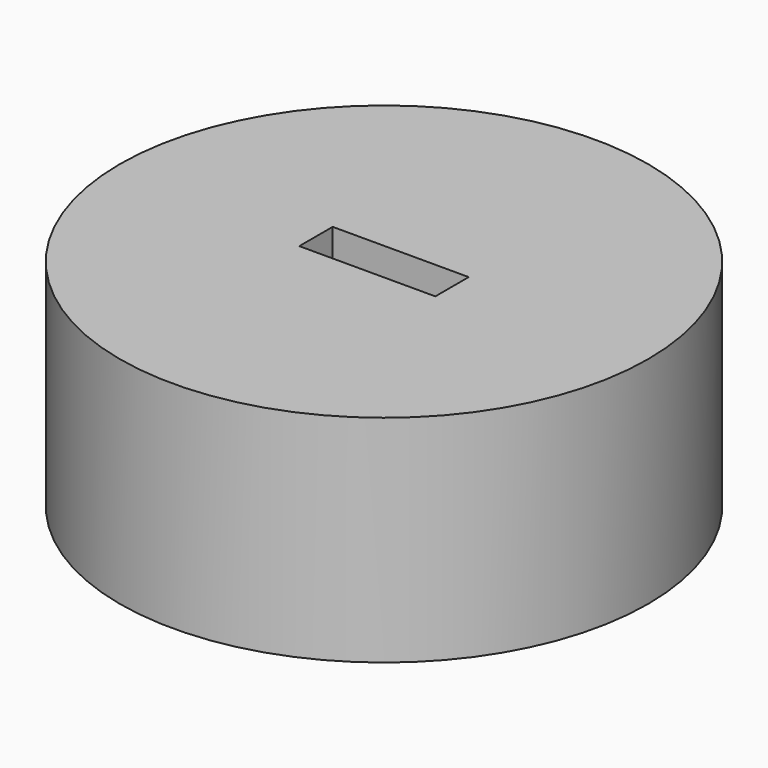
from build123d import *

# Parameters (mm, degrees)
F0_R     = 19.609183
F0_W     = 10.1
F0_H     = 3.1
F1_DEPTH = 3
F2_DEPTH = 13


with BuildPart() as f1:
    # F0 (on Top) → F1 (new body)
    with BuildSketch(Plane.XY):
        Circle(F0_R)
        Polygon((-12.493552, -12.409452), (-16.993677, 4.615007), (-4.500125, 17.024459), (12.493552, 12.409452), (16.993677, -4.615007), (4.500125, -17.024459), align=None, mode=Mode.SUBTRACT)
        Polygon((-4.500125, 17.024459), (-16.993677, 4.615007), (-12.493552, -12.409452), (4.500125, -17.024459), (16.993677, -4.615007), (12.493552, 12.409452), align=None)
        Rectangle(F0_W, F0_H, mode=Mode.SUBTRACT)
    extrude(amount=F1_DEPTH)

    # F0 (on Top) → F2 (join)
    with BuildSketch(Plane.XY):
        Circle(F0_R)
        Polygon((-12.493552, -12.409452), (-16.993677, 4.615007), (-4.500125, 17.024459), (12.493552, 12.409452), (16.993677, -4.615007), (4.500125, -17.024459), align=None, mode=Mode.SUBTRACT)
    extrude(amount=-F2_DEPTH)


solid = f1.part
